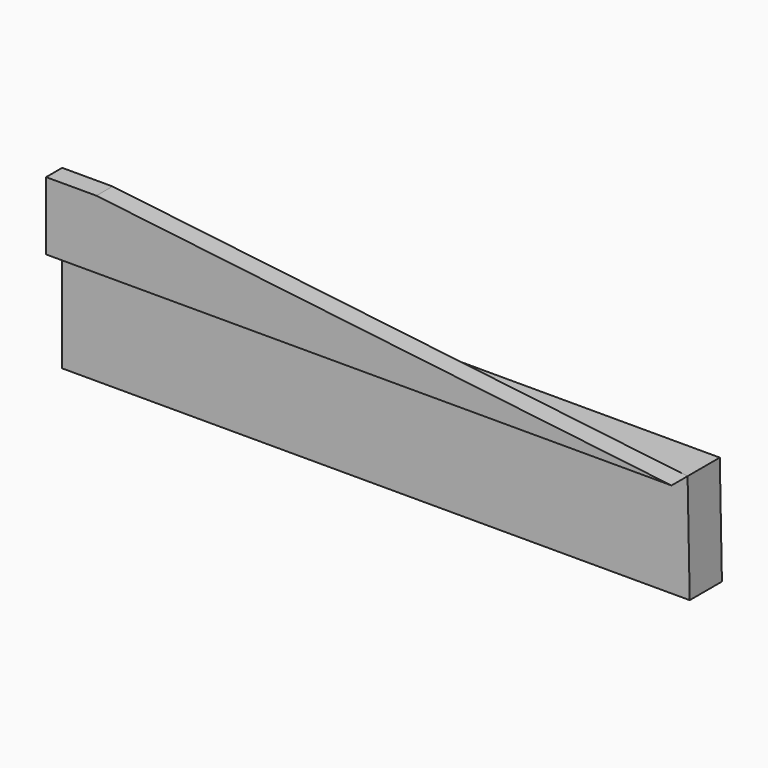
from build123d import *

# Parameters (mm, degrees)
F1_DEPTH = 2.54
F3_DEPTH = 2.54
F5_DEPTH = 2.54


with BuildPart() as f1:
    # F0 (on Front) → F1 (new body)
    with BuildSketch(Plane.XZ):
        Polygon((-14.3642118201, 21.3449504226), (-14.3642118201, 7.6519632712), (64.8403167725, 7.6519632712), (64.5718276501, 21.3449504226), align=None)
        Polygon((-14.3642118201, 21.3449504226), (-14.3642118201, 7.6519632712), (64.8403167725, 7.6519632712), (64.5718276501, 21.3449504226), align=None)
    extrude(amount=F1_DEPTH)

    # F3 (add): a face of the model
    f3_faces = [f1.faces().sort_by_distance(p)[0] for p in [
        (25.1709681821, -2.54, 14.4945822159),
    ]]
    extrude(f3_faces, amount=F3_DEPTH)


with BuildPart() as f5:
    # F4 (on face) → F5 (new body)
    with BuildSketch(Plane.XZ.offset(5.08)):
        Polygon((-14.3642118201, 29.9366265535), (-14.3642118201, 21.3449504226), (64.5718276501, 21.3449504226), (-8.0142118201, 29.9366265535), align=None)
    extrude(amount=F5_DEPTH)


solid = Compound([f1.part, f5.part])
